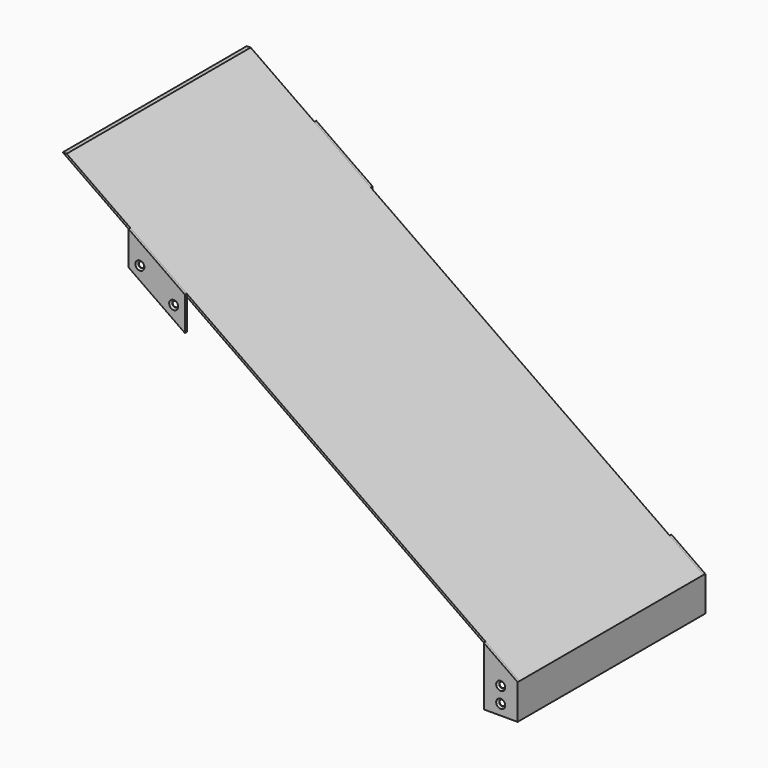
from build123d import *

# Parameters (mm, degrees)
F1_DEPTH       = 204
F5_DEPTH       = 2
F7_D           = 5
F7_DEPTH       = 10
F7_CSINK_D     = 8
F7_CSINK_ANGLE = 90
F8_D           = 5
F8_DEPTH       = 10
F8_CSINK_D     = 8
F8_CSINK_ANGLE = 90


with BuildPart() as f1:
    # F0 (on Front) → F1 (new body)
    with BuildSketch(Plane.XZ):
        Polygon((30, 0), (30, 31.041134), (-371.513106, 312.183638), (-375, 312.183638), (28, 30), (28, 0), align=None)
    extrude(amount=F1_DEPTH)

    # F4 (on offset) → F5 (join)
    with BuildSketch(Plane.XZ.offset(204)):
        Polygon((0, 52.04736), (0, 0), (30, 0), (30, 31.041134), align=None)
        Polygon((-265, 237.602358), (-315, 272.612735), (-315, 242.612735), (-265, 207.602358), align=None)
    extrude(amount=F5_DEPTH)

    # F7
    with Locations(Plane.XZ.offset(206)):
        with Locations((15, 23.274141), (15, 9.274141)):
            CounterSinkHole(F7_D / 2, F7_CSINK_D / 2, depth=F7_DEPTH, counter_sink_angle=F7_CSINK_ANGLE)

    # F8
    with Locations(Plane.XZ.offset(206)):
        with Locations((-305, 247.299041), (-275, 226.292814)):
            CounterSinkHole(F8_D / 2, F8_CSINK_D / 2, depth=F8_DEPTH, counter_sink_angle=F8_CSINK_ANGLE)

    # F9: F1 across plane


with BuildPart() as f1_1:
    add(f1.part)
    add(f1.part.mirror(Plane.XZ.offset(102)))


solid = f1_1.part
